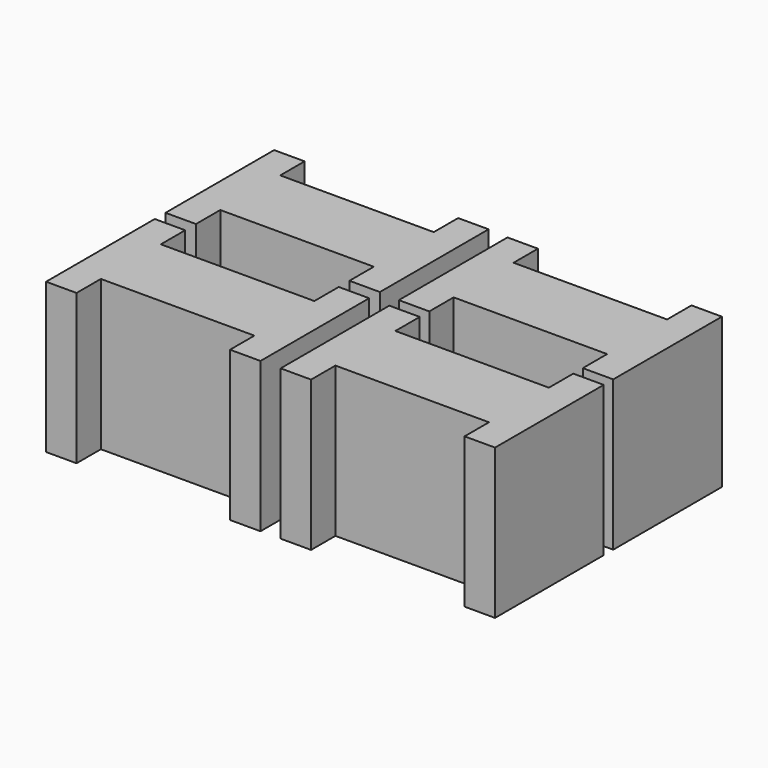
from build123d import *

# Parameters (mm, degrees)
F0_W     = 25.6032
F0_H     = 12.4968
F1_DEPTH = 25.0063


with BuildPart() as f1:
    # F0 (on Top) → F1 (new body)
    with BuildSketch(Plane.XY):
        Polygon((12.8016, 11.3284), (12.8016, 6.2484), (12.8016, -6.2484), (12.8016, -11.3284), (17.8816, -11.3284), (17.8816, 11.3284), align=None)
        Rectangle(F0_W, F0_H)
        Polygon((-12.8016, -6.2484), (-12.8016, 6.2484), (-12.8016, 11.3284), (-17.8816, 11.3284), (-17.8816, -11.320192), (-12.8016, -11.320192), align=None)
    extrude(amount=F1_DEPTH)


with BuildPart() as f2_1:
    # F2: copy of F1
    add(f1.part.moved(Location((0, 24.892, 0))))


with BuildPart() as f3_1:
    # F3: copy of F1
    add(f1.part.moved(Location((39.116, 0, 0))))


with BuildPart() as f4_1:
    # F4: copy of F2_1
    add(f2_1.part.moved(Location((39.116, -0.254, 0))))


solid = Compound([f1.part, f2_1.part, f3_1.part, f4_1.part])
